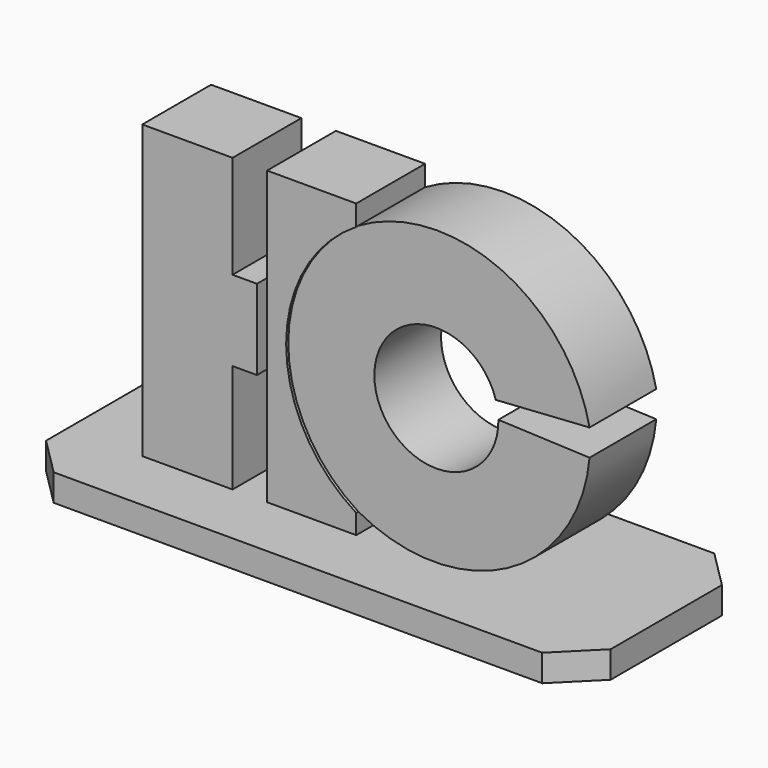
from build123d import *

# Parameters (mm, degrees)
F1_DEPTH = 16
F3_DEPTH = 5
F5_DEPTH = 0.5


with BuildPart() as f1:
    # F0 (on Front) → F1 (new body)
    with BuildSketch(Plane.XZ):
        Polygon((0, 54.299496), (0, 0), (16.794946, 0), (16.794946, 20.20259), (21.330208, 20.20259), (21.330208, 35.15172), (16.794946, 35.15172), (16.794946, 54.299496), align=None)
        with BuildLine():
            Line((39.793082, 54.299496), (23.217848, 54.299496))
            Line((23.217848, 54.299496), (23.217848, 0))
            Line((23.217848, 0), (39.793082, 0))
            Line((39.793082, 0), (39.793082, 3.637654))
            ThreePointArc((39.793082, 3.637654), (67.473593, 3.40141), (82.785092, 26.46273))
            Line((82.785092, 26.46273), (65.827004, 27.154222))
            ThreePointArc((65.827004, 27.154222), (42.90069, 25.180149), (65.34548, 30.254027))
            Line((65.34548, 30.254027), (82.785092, 31.404957))
            ThreePointArc((82.785092, 31.404957), (66.183523, 51.974798), (39.793082, 50.46647))
            Line((39.793082, 50.46647), (39.793082, 54.299496))
        make_face()
    extrude(amount=-F1_DEPTH)

    # F4 (on face) → F5 (cut)
    with BuildSketch(Plane.XZ):
        with BuildLine():
            ThreePointArc((65.827004, 27.154222), (42.90069, 25.180149), (65.34548, 30.254027))
            Line((65.34548, 30.254027), (82.785092, 31.404957))
            ThreePointArc((82.785092, 31.404957), (66.183523, 51.974798), (39.793082, 50.46647))
            ThreePointArc((39.793082, 50.46647), (26.756525, 27.052062), (39.793082, 3.637654))
            ThreePointArc((39.793082, 3.637654), (67.473593, 3.40141), (82.785092, 26.46273))
            Line((82.785092, 26.46273), (65.827004, 27.154222))
        make_face()
    extrude(amount=-F5_DEPTH, mode=Mode.SUBTRACT)


with BuildPart() as f3:
    # F2 (on Top) → F3 (new body)
    with BuildSketch(Plane.XY):
        Polygon((83.985612, 28), (-6.872252, 28), (-13.94332, 20.928932), (-13.94332, -4.928932), (-6.872252, -12), (83.985612, -12), (91.05668, -4.928932), (91.05668, 20.928932), align=None)
    extrude(amount=-F3_DEPTH)


solid = Compound([f1.part, f3.part])
